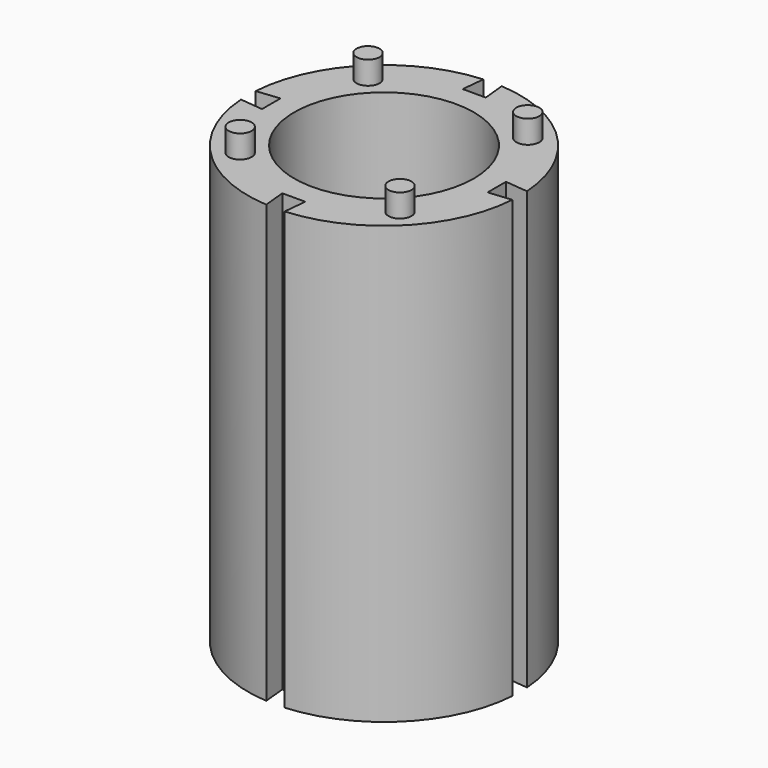
from build123d import *

# Parameters (mm, degrees)
F0_R     = 49.6
F1_DEPTH = 241.3
F2_R     = 6.35
F3_DEPTH = 12.7


with BuildPart() as f1:
    # F0 (on Top) → F1 (new body)
    with BuildSketch(Plane.XY):
        with BuildLine():
            Line((-62.3, -6.35), (-74.948035, -5.08))
            ThreePointArc((-74.948035, -5.08), (-53.117861, -53.117861), (-5.08, -74.948035))
            Line((-5.08, -74.948035), (-6.35, -62.3))
            Line((-6.35, -62.3), (6.35, -62.3))
            Line((6.35, -62.3), (5.08, -74.948035))
            ThreePointArc((5.08, -74.948035), (53.117861, -53.117861), (74.948035, -5.08))
            Line((74.948035, -5.08), (62.3, -6.35))
            Line((62.3, -6.35), (62.3, 6.35))
            Line((62.3, 6.35), (74.948035, 5.08))
            ThreePointArc((74.948035, 5.08), (53.117861, 53.117861), (5.08, 74.948035))
            Line((5.08, 74.948035), (6.35, 62.3))
            Line((6.35, 62.3), (-6.35, 62.3))
            Line((-6.35, 62.3), (-5.08, 74.948035))
            ThreePointArc((-5.08, 74.948035), (-53.117861, 53.117861), (-74.948035, 5.08))
            Line((-74.948035, 5.08), (-62.3, 6.35))
            Line((-62.3, 6.35), (-62.3, 0))
            Line((-62.3, 0), (-62.3, -6.35))
        make_face()
        Circle(F0_R, mode=Mode.SUBTRACT)
    extrude(amount=F1_DEPTH)

    # F2 (on face) → F3 (join)
    with BuildSketch(Plane.XY.offset(241.3)):
        with Locations((-44.137605, 44.137605)):
            Circle(F2_R)
        with Locations((-44.137605, -44.137605)):
            Circle(F2_R)
        with Locations((44.137605, -44.137605)):
            Circle(F2_R)
        with Locations((44.137605, 44.137605)):
            Circle(F2_R)
    extrude(amount=F3_DEPTH)


solid = f1.part
